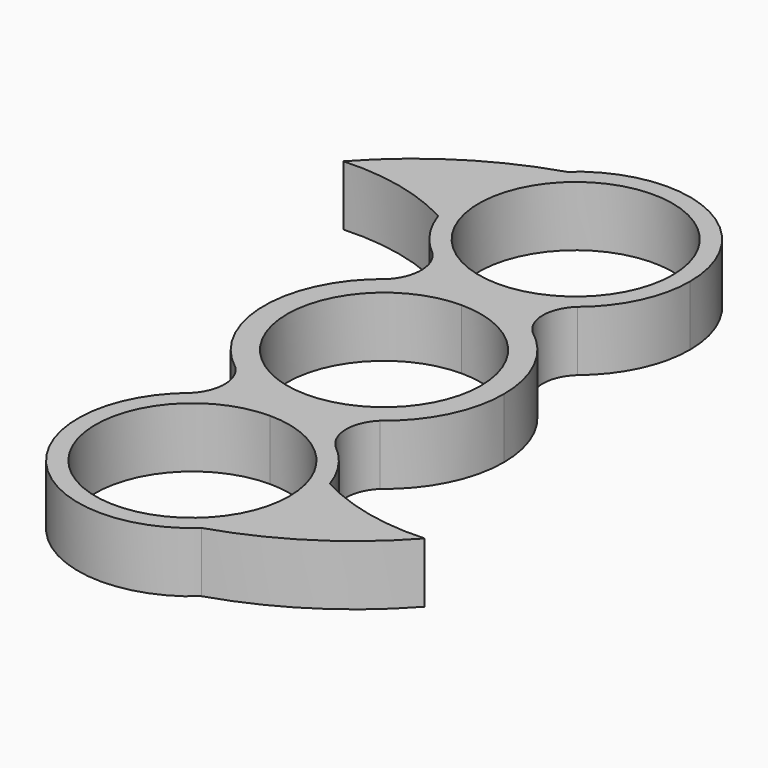
from build123d import *

# Parameters (mm, degrees)
F1_DEPTH = 7.0104


with BuildPart() as f1:
    # F0 (on Top) → F1 (new body)
    with BuildSketch(Plane.XY):
        with BuildLine():
            ThreePointArc((0, 14.605), (4.491191, 15.384068), (8.457606, 17.630241))
            ThreePointArc((8.457606, 17.630241), (12.054136, 22.237367), (13.335, 27.94))
            ThreePointArc((13.335, 27.94), (5.395093, 40.134884), (-8.969491, 37.807647))
            ThreePointArc((-8.969491, 37.807647), (-12.905248, 31.298094), (-12.641557, 23.695796))
            ThreePointArc((-12.641557, 23.695796), (-10.976858, 20.368289), (-8.457606, 17.630241))
            ThreePointArc((-8.457606, 17.630241), (-4.491191, 15.384068), (0, 14.605))
        make_face()
        with BuildLine():
            ThreePointArc((11.303, 27.94), (7.992428, 19.947572), (0, 16.637))
            ThreePointArc((0, 16.637), (-7.992428, 35.932428), (11.303, 27.94))
        make_face(mode=Mode.SUBTRACT)
        with BuildLine():
            ThreePointArc((-12.641557, 23.695796), (-12.905248, 31.298094), (-8.969491, 37.807647))
            ThreePointArc((-8.969491, 37.807647), (-18.291392, 33.418044), (-26.129866, 26.730385))
            ThreePointArc((-26.129866, 26.730385), (-19.174269, 26.152924), (-12.641557, 23.695796))
        make_face()
        with BuildLine():
            ThreePointArc((-8.441084, 11.131442), (-4.452789, 13.241358), (0, 13.97))
            Line((0, 13.97), (0, 14.605))
            ThreePointArc((0, 14.605), (-4.491191, 15.384068), (-8.457606, 17.630241))
            ThreePointArc((-8.457606, 17.630241), (-7.16866, 14.384098), (-8.441084, 11.131442))
        make_face()
        with BuildLine():
            Line((0, 11.303), (0, 13.97))
            ThreePointArc((0, 13.97), (-4.452789, 13.241358), (-8.441084, 11.131442))
            ThreePointArc((-8.441084, 11.131442), (-13.97, 0), (-8.441084, -11.131442))
            ThreePointArc((-8.441084, -11.131442), (-4.452789, -13.241358), (0, -13.97))
            Line((0, -13.97), (0, -11.303))
            ThreePointArc((0, -11.303), (-11.303, 0), (0, 11.303))
        make_face()
        with BuildLine():
            ThreePointArc((8.441084, -11.131442), (12.511651, -6.214457), (13.97, 0))
            ThreePointArc((13.97, 0), (12.511651, 6.214457), (8.441084, 11.131442))
            ThreePointArc((8.441084, 11.131442), (4.452789, 13.241358), (0, 13.97))
            Line((0, 13.97), (0, 11.303))
            ThreePointArc((0, 11.303), (7.992428, 7.992428), (11.303, 0))
            ThreePointArc((11.303, 0), (7.992428, -7.992428), (0, -11.303))
            Line((0, -11.303), (0, -13.97))
            ThreePointArc((0, -13.97), (4.452789, -13.241358), (8.441084, -11.131442))
        make_face()
        with BuildLine():
            ThreePointArc((0, 13.97), (4.452789, 13.241358), (8.441084, 11.131442))
            ThreePointArc((8.441084, 11.131442), (7.023944, 14.384466), (8.457606, 17.630241))
            ThreePointArc((8.457606, 17.630241), (4.491191, 15.384068), (0, 14.605))
            Line((0, 14.605), (0, 13.97))
        make_face()
        with BuildLine():
            ThreePointArc((8.441084, -17.61671), (7.083112, -14.374076), (8.441084, -11.131442))
            ThreePointArc((8.441084, -11.131442), (4.452789, -13.241358), (0, -13.97))
            Line((0, -13.97), (0, -14.605))
            ThreePointArc((0, -14.605), (4.481135, -15.380476), (8.441084, -17.61671))
        make_face()
        with BuildLine():
            Line((0, -14.605), (0, -13.97))
            ThreePointArc((0, -13.97), (-4.452789, -13.241358), (-8.441084, -11.131442))
            ThreePointArc((-8.441084, -11.131442), (-7.101205, -14.374076), (-8.441084, -17.61671))
            ThreePointArc((-8.441084, -17.61671), (-4.481135, -15.380476), (0, -14.605))
        make_face()
        with BuildLine():
            ThreePointArc((12.641557, -23.695796), (10.970791, -20.359501), (8.441084, -17.61671))
            ThreePointArc((8.441084, -17.61671), (4.481135, -15.380476), (0, -14.605))
            ThreePointArc((0, -14.605), (-4.481135, -15.380476), (-8.441084, -17.61671))
            ThreePointArc((-8.441084, -17.61671), (-10.098925, -36.648268), (8.969491, -37.807647))
            ThreePointArc((8.969491, -37.807647), (12.194884, -33.335093), (13.335, -27.94))
            ThreePointArc((13.335, -27.94), (13.160497, -25.78976), (12.641557, -23.695796))
        make_face()
        with BuildLine():
            ThreePointArc((11.303, -27.94), (-7.992428, -35.932428), (0, -16.637))
            ThreePointArc((0, -16.637), (7.992428, -19.947572), (11.303, -27.94))
        make_face(mode=Mode.SUBTRACT)
        with BuildLine():
            ThreePointArc((26.129866, -26.730385), (19.174269, -26.152924), (12.641557, -23.695796))
            ThreePointArc((12.641557, -23.695796), (13.160497, -25.78976), (13.335, -27.94))
            ThreePointArc((13.335, -27.94), (12.194884, -33.335093), (8.969491, -37.807647))
            ThreePointArc((8.969491, -37.807647), (18.291392, -33.418044), (26.129866, -26.730385))
        make_face()
    extrude(amount=F1_DEPTH)


solid = f1.part
